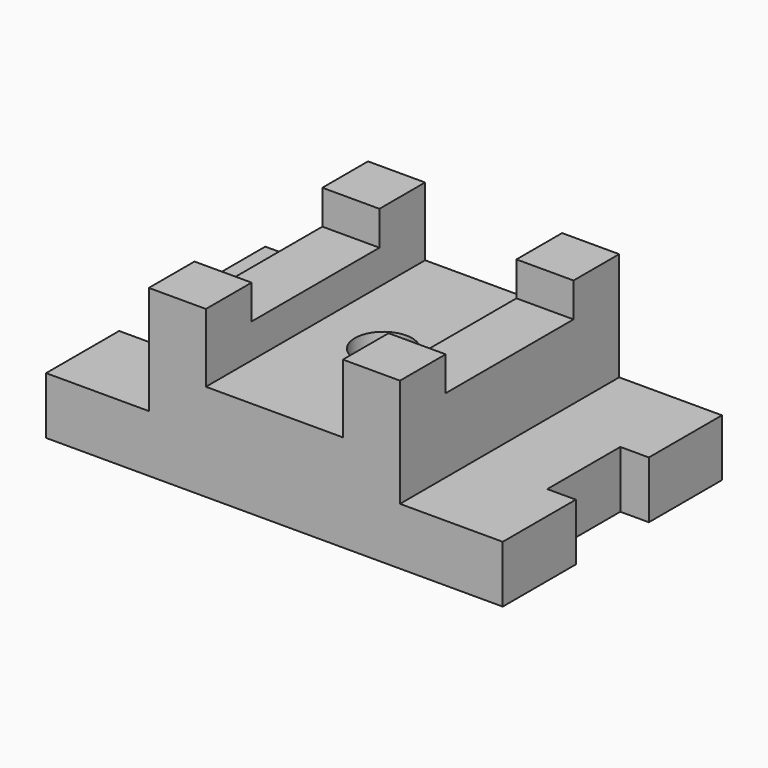
from build123d import *

# Parameters (mm, degrees)
F1_DEPTH = 31.75
F2_DEPTH = 73.025
F0_W     = 31.75
F0_H     = 31.75
F3_DEPTH = 92.075
F4_DEPTH = 53.975
F5_DEPTH = 73.025
F6_DEPTH = 92.075
F7_DEPTH = 31.75
F8_R     = 15.875
F9_DEPTH = 53.975


with BuildPart() as f1:
    # F0 (on Top) → F1 (new body)
    with BuildSketch(Plane.XY):
        Polygon((-61.147349, 68.323421), (-118.297349, 68.323421), (-118.297349, 17.523421), (-102.422349, 17.523421), (-102.422349, -7.876579), (-102.422349, -33.276579), (-118.297349, -33.276579), (-118.297349, -84.076579), (-61.147349, -84.076579), (-61.147349, -52.326579), (-61.147349, -7.876579), (-61.147349, 36.573421), align=None)
    extrude(amount=F1_DEPTH)

    # F0 (on Top) → F2 (join)
    with BuildSketch(Plane.XY):
        Polygon((-29.397349, 36.573421), (-61.147349, 36.573421), (-61.147349, -7.876579), (-61.147349, -52.326579), (-29.397349, -52.326579), (-29.397349, -7.876579), align=None)
    extrude(amount=F2_DEPTH)

    # F0 (on Top) → F3 (join)
    with BuildSketch(Plane.XY):
        with Locations((-45.272349, -68.201579)):
            Rectangle(F0_W, F0_H)
        with Locations((-45.272349, 52.448421)):
            Rectangle(F0_W, F0_H)
    extrude(amount=F3_DEPTH)

    # F0 (on Top) → F4 (join)
    with BuildSketch(Plane.XY):
        Polygon((8.702651, 68.323421), (-29.397349, 68.323421), (-29.397349, 36.573421), (-29.397349, -7.876579), (-29.397349, -52.326579), (-29.397349, -84.076579), (8.702651, -84.076579), (46.802651, -84.076579), (46.802651, -52.326579), (46.802651, -7.876579), (46.802651, 36.573421), (46.802651, 68.323421), align=None)
    extrude(amount=F4_DEPTH)

    # F0 (on Top) → F5 (join)
    with BuildSketch(Plane.XY):
        Polygon((78.552651, 36.573421), (46.802651, 36.573421), (46.802651, -7.876579), (46.802651, -52.326579), (78.552651, -52.326579), (78.552651, -7.876579), align=None)
    extrude(amount=F5_DEPTH)

    # F0 (on Top) → F6 (join)
    with BuildSketch(Plane.XY):
        with Locations((62.677651, -68.201579)):
            Rectangle(F0_W, F0_H)
        with Locations((62.677651, 52.448421)):
            Rectangle(F0_W, F0_H)
    extrude(amount=F6_DEPTH)

    # F0 (on Top) → F7 (join)
    with BuildSketch(Plane.XY):
        Polygon((135.702651, 68.323421), (78.552651, 68.323421), (78.552651, 36.573421), (78.552651, -7.876579), (78.552651, -52.326579), (78.552651, -84.076579), (135.702651, -84.076579), (135.702651, -33.276579), (119.827651, -33.276579), (119.827651, -7.876579), (119.827651, 17.523421), (135.702651, 17.523421), align=None)
    extrude(amount=F7_DEPTH)

    # F8 (on face) → F9 (cut)
    with BuildSketch(Plane.XY.offset(53.975)):
        with Locations((8.399973, -7.876579)):
            Circle(F8_R)
    extrude(amount=-F9_DEPTH, mode=Mode.SUBTRACT)


solid = f1.part
